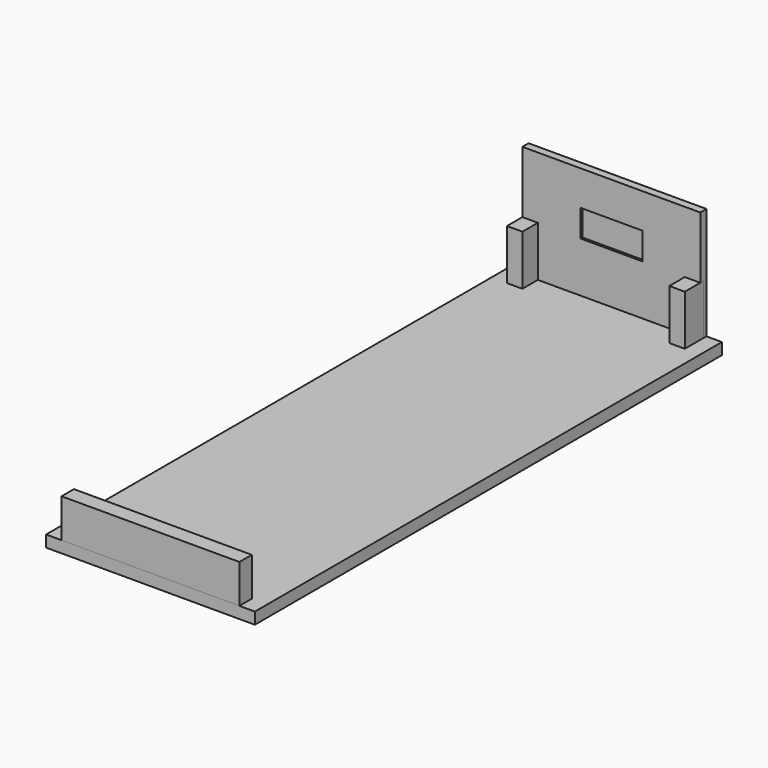
from build123d import *

# Parameters (mm, degrees)
BOX_W        = 27
BOX_H        = 75.5
BOX_DEPTH    = 1.5
BOX001_W     = 23
BOX001_H     = 2
BOX001_DEPTH = 5
BOX003_W     = 8
BOX003_H     = 1
BOX003_DEPTH = 3.5
BOX002_W     = 23
BOX002_H     = 1
BOX002_DEPTH = 14.5
BOX004_W     = 8
BOX004_H     = 0.3
BOX004_DEPTH = 3.5
BOX005_W     = 2
BOX005_H     = 3
BOX005_DEPTH = 8
BOX006_W     = 2
BOX006_H     = 3
BOX006_DEPTH = 8


with BuildPart() as obj1:
    # Box → Box (new body)
    with BuildSketch(Plane.XY):
        with Locations((13.5, 37.75)):
            Rectangle(BOX_W, BOX_H)
    extrude(amount=BOX_DEPTH)


with BuildPart() as obj2:
    # Box001 → Box001 (new body)
    with BuildSketch(Plane(origin=(2, 0, 1.5), x_dir=(1, 0, 0), z_dir=(0, 0, 1))):
        with Locations((11.5, 1)):
            Rectangle(BOX001_W, BOX001_H)
    extrude(amount=BOX001_DEPTH)


with BuildPart() as obj3:
    # Box003 → Box003 (new body)
    with BuildSketch(Plane(origin=(9.5, 74.5, 8), x_dir=(1, 0, 0), z_dir=(0, 0, 1))):
        with Locations((4, 0.5)):
            Rectangle(BOX003_W, BOX003_H)
    extrude(amount=BOX003_DEPTH)


with BuildPart() as cut:
    # Box002 → Box002 (new body)
    with BuildSketch(Plane(origin=(2, 74.5, 1.5), x_dir=(1, 0, 0), z_dir=(0, 0, 1))):
        with Locations((11.5, 0.5)):
            Rectangle(BOX002_W, BOX002_H)
    extrude(amount=BOX002_DEPTH)

    # Cut: cut obj3
    add(obj3.part, mode=Mode.SUBTRACT)


with BuildPart() as obj4:
    # Box004 → Box004 (new body)
    with BuildSketch(Plane(origin=(9.5, 74.8, 8), x_dir=(1, 0, 0), z_dir=(0, 0, 1))):
        with Locations((4, 0.15)):
            Rectangle(BOX004_W, BOX004_H)
    extrude(amount=BOX004_DEPTH)


with BuildPart() as obj5:
    # Box005 → Box005 (new body)
    with BuildSketch(Plane(origin=(2, 72, 0), x_dir=(1, 0, 0), z_dir=(0, 0, 1))):
        with Locations((1, 1.5)):
            Rectangle(BOX005_W, BOX005_H)
    extrude(amount=BOX005_DEPTH)


with BuildPart() as obj6:
    # Box006 → Box006 (new body)
    with BuildSketch(Plane(origin=(23, 72, 0), x_dir=(1, 0, 0), z_dir=(0, 0, 1))):
        with Locations((1, 1.5)):
            Rectangle(BOX006_W, BOX006_H)
    extrude(amount=BOX006_DEPTH)


solid = Compound([obj1.part, obj2.part, cut.part, obj4.part, obj5.part, obj6.part])
